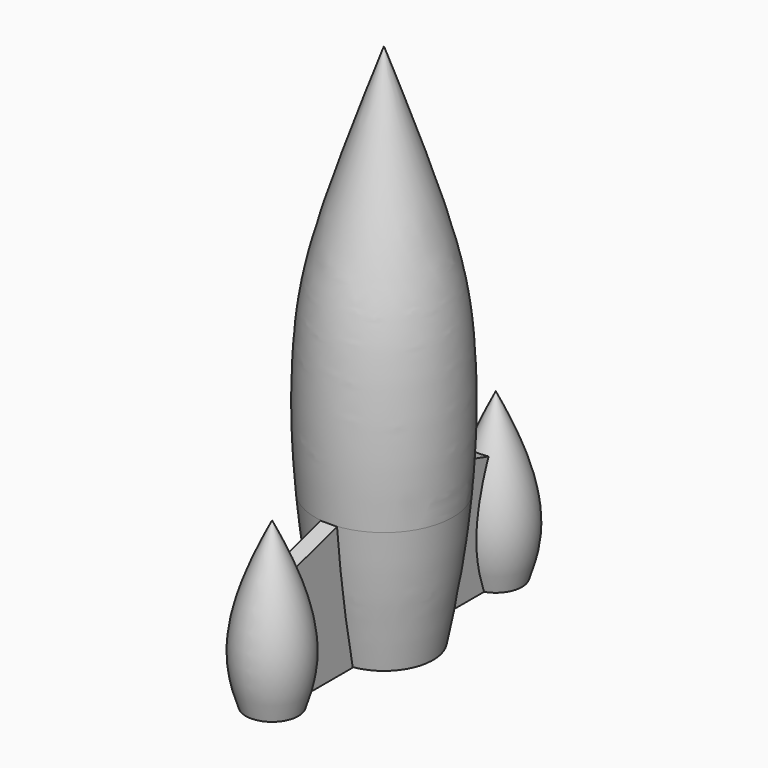
from build123d import *

# Parameters (mm, degrees)
F4_DEPTH = 2.5


with BuildPart() as f1:
    # F0 (on Right) → F1 (revolve)
    with BuildSketch(Plane.YZ):
        with BuildLine():
            Line((0, 160), (0, 0))
            Line((0, 0), (15, 0))
            add(Edge.make_bspline(
                [(15, 0), (18.0882999934, 15.0659116162), (19.9635712827, 28.427191974), (21.0043573946, 40.2729620411)],
                knots=[0, 0, 0, 0, 0.214249336, 0.214249336, 0.214249336, 0.214249336], degree=3))
            add(Edge.make_bspline(
                [(21.0043573946, 40.2729620411), (22.3636299565, 55.7436048979), (22.1837181315, 91.9286079904), (17.4293045557, 111.0517297705), (0, 160)],
                knots=[0.214249336, 0.214249336, 0.214249336, 0.214249336, 0.4940601832, 1, 1, 1, 1], degree=3))
        make_face()
    revolve(axis=Axis((0, 0, 80), (0, 0, 1)))


with BuildPart() as f2:
    # F0 (on Right) → F2 (revolve)
    with BuildSketch(Plane.YZ):
        with BuildLine():
            Line((42.6501097022, 33.9636168072), (42.6501097022, 0))
            Line((42.6501097022, 0), (50.6501097022, 0))
            add(Edge.make_bspline(
                [(50.6501097022, 0), (53.3306793428, 7.524365418), (54.7956673718, 20.4949289562), (49.0923024419, 37.130534754), (42.6501097022, 50)],
                knots=[0, 0, 0, 0, 0.4397655571, 1, 1, 1, 1], degree=3))
            Line((42.6501097022, 50), (42.6501097022, 33.9636168072))
        make_face()
    revolve(axis=Axis((0, 42.6501097022, 25), (0, 0, 1)))


with BuildPart() as f3_1:
    # F3: instance of F2
    add(f2.part.mirror(Plane.XZ))


with BuildPart() as f4:
    # F0 (on Right) → F4 (new body, symmetric)
    with BuildSketch(Plane.YZ):
        with BuildLine():
            add(Edge.make_bspline(
                [(15, 0), (18.0882999934, 15.0659116162), (19.9635712827, 28.427191974), (21.0043573946, 40.2729620411)],
                knots=[0, 0, 0, 0, 0.214249336, 0.214249336, 0.214249336, 0.214249336], degree=3))
            Line((15, 0), (42.6501097022, 0))
            Line((42.6501097022, 0), (42.6501097022, 33.9636168072))
            Line((42.6501097022, 33.9636168072), (21.0043573946, 40.2729620411))
        make_face()
    extrude(amount=F4_DEPTH, both=True)


with BuildPart() as f5_1:
    # F5: instance of F4
    add(f4.part.mirror(Plane.XZ))


solid = Compound([f1.part, f2.part, f3_1.part, f4.part, f5_1.part])
